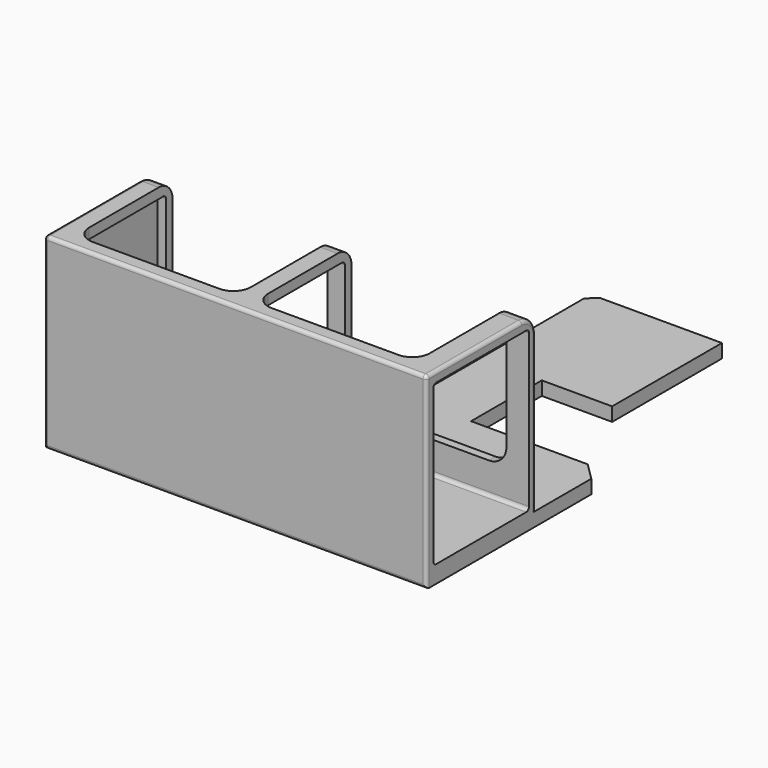
from build123d import *

# Parameters (mm, degrees)
PAD_DEPTH       = 3.95
SKETCH001_W     = 110
SKETCH001_H     = 39.3
PAD001_DEPTH    = 50
SKETCH002_W     = 34.4
SKETCH002_H     = 46
POCKET_DEPTH    = 107
SKETCH003_W     = 46.5
SKETCH003_H     = 35
POCKET001_DEPTH = 40
CHAMFER_SIZE    = 2.5
CHAMFER001_SIZE = 5
FILLET_R        = 2.5
FILLET001_R     = 1
FILLET002_R     = 5
FILLET003_R     = 1


with BuildPart() as part:
    # Sketch → Pad (new body)
    with BuildSketch(Plane.XY):
        Polygon((7.25, 19.75), (45, 19.75), (45, -19.75), (24.75, -19.75), (24.75, -45.2), (63.35, -45.2), (63.35, -109.5), (-46.65, -109.5), (-46.65, -70.2), (-6.65, -70.2), (-6.65, -45.2), (7.25, -45.2), align=None)
    extrude(amount=PAD_DEPTH)

    # Sketch001 (on Face14 of Pad) → Pad001 (join)
    with BuildSketch(Plane.XY.offset(3.95)):
        with Locations((8.35, -89.85)):
            Rectangle(SKETCH001_W, SKETCH001_H)
    extrude(amount=PAD001_DEPTH)

    # Sketch002 (on Face15 of Pad001) → Pocket (cut)
    with BuildSketch(Plane.YZ.offset(63.35)):
        with Locations((-89.8, 28)):
            Rectangle(SKETCH002_W, SKETCH002_H)
    extrude(amount=-POCKET_DEPTH, mode=Mode.SUBTRACT)

    # Sketch003 (on Face1 of Pocket) → Pocket001 (cut)
    with BuildSketch(Plane.XY.offset(53.95)):
        with Locations((-17.9, -87.7)):
            Rectangle(SKETCH003_W, SKETCH003_H)
        with Locations((33.6, -87.7)):
            Rectangle(SKETCH003_W, SKETCH003_H)
    extrude(amount=-POCKET001_DEPTH, mode=Mode.SUBTRACT)

    # Chamfer
    chamfer_edges = [part.edges().sort_by_distance(p)[0] for p in [
        (7.25, 19.75, 1.975),
    ]]
    chamfer(chamfer_edges, length=CHAMFER_SIZE)

    # Chamfer001
    chamfer001_edges = [part.edges().sort_by_distance(p)[0] for p in [
        (63.35, -45.2, 1.975),
    ]]
    chamfer(chamfer001_edges, length=CHAMFER001_SIZE)

    # Fillet
    fillet_edges = [part.edges().sort_by_distance(p)[0] for p in [
        (-6.65, -45.2, 1.975),
        (-6.65, -70.2, 1.975),
    ]]
    fillet(fillet_edges, radius=FILLET_R)

    # Fillet001
    fillet001_edges = [part.edges().sort_by_distance(p)[0] for p in [
        (9.85, -107, 51),
        (9.85, -107, 5),
        (9.85, -72.6, 5),
        (60.1, -72.6, 51),
        (7.85, -72.6, 51),
        (-42.4, -72.6, 51),
    ]]
    fillet(fillet001_edges, radius=FILLET001_R)

    # Fillet002
    fillet002_edges = [part.edges().sort_by_distance(p)[0] for p in [
        (-41.15, -105.2, 52.475),
        (5.35, -105.2, 52.475),
        (10.35, -105.2, 52.475),
        (56.85, -105.2, 52.475),
        (-41.15, -71.4, 13.95),
        (5.35, -71.4, 13.95),
        (10.35, -71.4, 13.95),
        (56.85, -71.4, 13.95),
        (-43.9, -70.2, 53.95),
        (7.85, -70.2, 53.95),
        (60.1, -70.2, 53.95),
    ]]
    fillet(fillet002_edges, radius=FILLET002_R)

    # Fillet003
    fillet003_edges = [part.edges().sort_by_distance(p)[0] for p in [
        (8.35, -109.5, 53.95),
        (-46.65, -109.5, 26.975),
        (63.35, -109.5, 26.975),
        (-46.65, -92.35, 53.95),
        (-46.65, -71.664466, 52.485534),
        (-46.65, -70.2, 24.475),
        (63.35, -70.2, 26.45),
        (63.35, -71.664466, 52.485534),
        (63.35, -92.35, 53.95),
        (8.35, -109.5, 0),
    ]]
    fillet(fillet003_edges, radius=FILLET003_R)


solid = part.part
